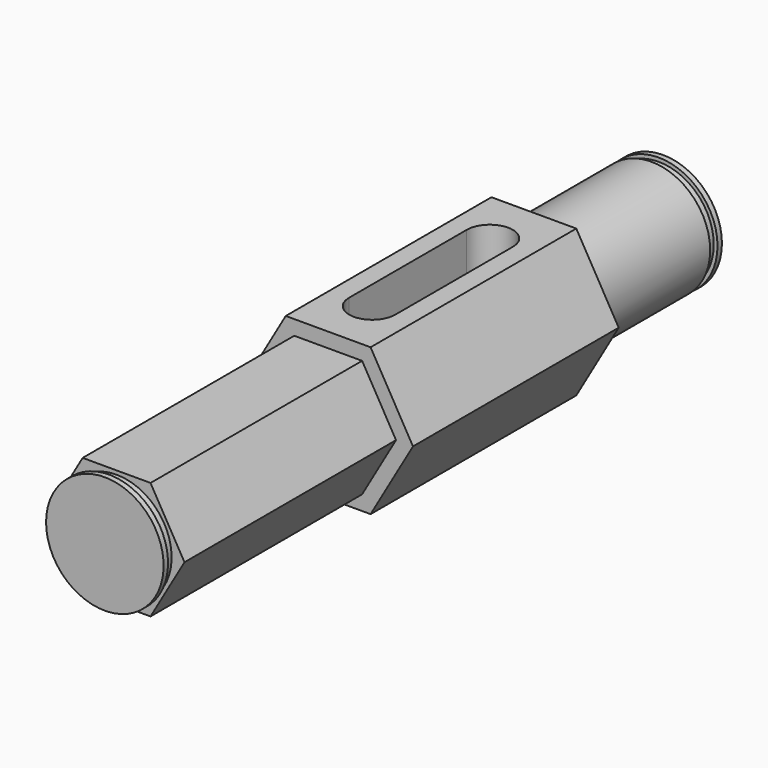
from build123d import *

# Parameters (mm, degrees)
F0_R     = 6.35
F0_R_2   = 2.4892
F1_DEPTH = 17.4625
F2_R     = 2.4892
F3_DEPTH = 27.78125
F5_DEPTH = 15.876
F7_DEPTH = 30.1625


with BuildPart() as f1:
    # F0 (on Front) → F1 (new body)
    with BuildSketch(Plane.XZ):
        Circle(F0_R)
        Circle(F0_R_2, mode=Mode.SUBTRACT)
    extrude(amount=F1_DEPTH)

    # F2 (on face) → F3 (join)
    with BuildSketch(Plane.XZ.offset(17.4625)):
        Polygon((4.5827177617, 7.9375), (-4.5827177617, 7.9375), (-9.1654355234, 0), (-4.5827177617, -7.9375), (4.5827177617, -7.9375), (9.1654355234, 0), align=None)
        Circle(F2_R, mode=Mode.SUBTRACT)
    extrude(amount=F3_DEPTH)

    # F4 (on face) → F5 (cut, through all)
    with BuildSketch(Plane.XY.offset(7.9375)):
        with BuildLine():
            ThreePointArc((2.4892, -23.415625), (0, -20.926425), (-2.4892, -23.415625))
            Line((-2.4892, -23.415625), (-2.4892, -39.290625))
            ThreePointArc((-2.4892, -39.290625), (0, -41.779825), (2.4892, -39.290625))
            Line((2.4892, -39.290625), (2.4892, -23.415625))
        make_face()
    extrude(amount=-F5_DEPTH, mode=Mode.SUBTRACT)

    # F6 (on face) → F7 (join)
    with BuildSketch(Plane.XZ.offset(45.24375)):
        Polygon((-3.6661742094, -6.35), (3.6661742094, -6.35), (7.3323484187, 0), (3.6661742094, 6.35), (-3.6661742094, 6.35), (-7.3323484187, 0), align=None)
    extrude(amount=F7_DEPTH)

    # F8 (on Top) → F9 (revolve, cut)
    with BuildSketch(Plane.XY):
        Polygon((-7.3323484187, -75.40625), (-6.35, -75.40625), (-6.35, -74.80935), (-5.9436, -74.80935), (-5.9436, -73.81875), (-7.3323484187, -73.81875), align=None)
        Polygon((6.35, -74.80935), (6.35, -75.40625), (7.3323484187, -75.40625), (7.3323484187, -73.81875), (5.9436, -73.81875), (5.9436, -74.80935), align=None)
        Polygon((7.3323484187, -1.5875), (7.3323484187, 0), (6.35, 0), (6.35, -0.5969), (5.9436, -0.5969), (5.9436, -1.5875), align=None)
        Polygon((-5.9436, -0.5969), (-6.35, -0.5969), (-6.35, 0), (-7.3323484187, 0), (-7.3323484187, -1.5875), (-5.9436, -1.5875), align=None)
    revolve(axis=Axis((0, -37.703125, 0), (0, 1, 0)), mode=Mode.SUBTRACT)


solid = f1.part
